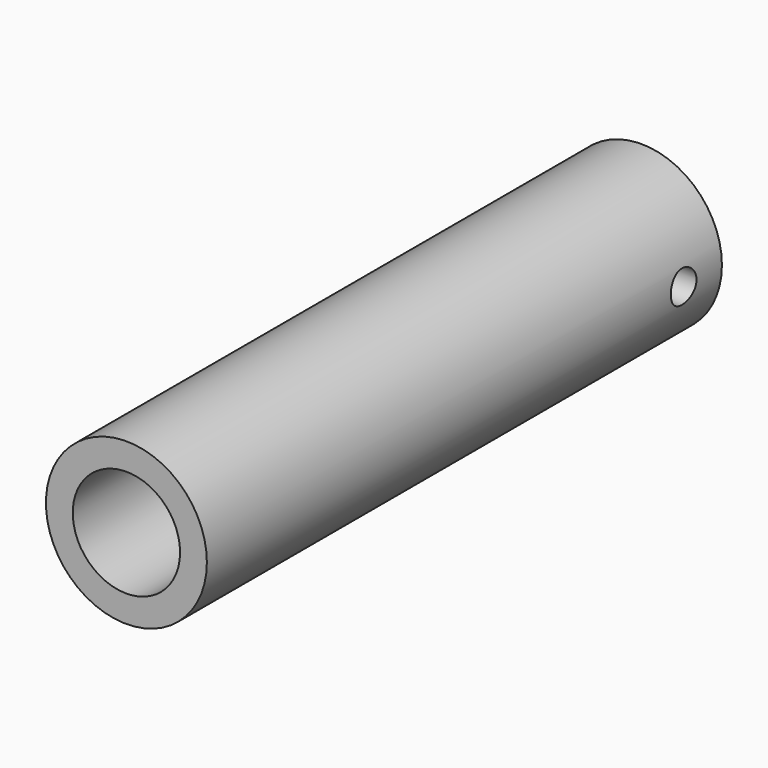
from build123d import *

# Parameters (mm, degrees)
F0_R     = 19.05
F0_R_2   = 12.7
F1_DEPTH = 76.2
F3_D     = 7.62
F3_DEPTH = 19.051


with BuildPart() as f1:
    # F0 (on Front) → F1 (new body, symmetric)
    with BuildSketch(Plane.XZ):
        Circle(F0_R)
        Circle(F0_R_2, mode=Mode.SUBTRACT)
    extrude(amount=F1_DEPTH, both=True)

    # F3 (through all, one way)
    with BuildSketch(Plane(origin=(0, 0, 0), x_dir=(0, 1, 0), z_dir=(-1, 0, 0))):
        with Locations((64.8783892393, 0)):
            Circle(F3_D / 2)
    extrude(amount=-F3_DEPTH, mode=Mode.SUBTRACT)


solid = f1.part
